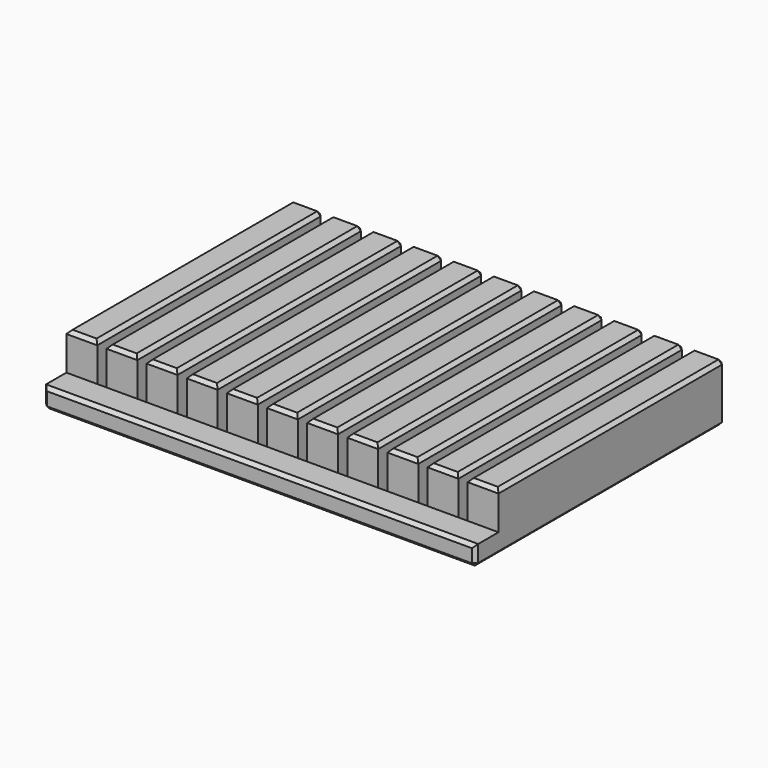
from build123d import *

# Parameters (mm, degrees)
SKETCH015_W             = 74.9
SKETCH015_H             = 3.5
PAD002_DEPTH            = 5
SKETCH017_W             = 5.35
SKETCH017_H             = 49
PAD003_DEPTH            = 10
LINEARPATTERN004_COUNT  = 11
LINEARPATTERN004_PITCH  = 6.955
CHAMFER_SIZE            = 0.6
BODY002_PLACEMENT_ANGLE = 90


with BuildPart() as part:
    # Sketch015 → Pad002 (new body)
    with BuildSketch(Plane.XY):
        with Locations((37.45, -1.75)):
            Rectangle(SKETCH015_W, SKETCH015_H)
    extrude(amount=-PAD002_DEPTH)

    # Sketch017 → Pad003 (join)
    with BuildSketch(Plane.XZ):
        with Locations((2.675, 24.5)):
            Rectangle(SKETCH017_W, SKETCH017_H)
    pad003 = extrude(amount=PAD003_DEPTH)

    # LinearPattern004: Pad003 ×11
    with Locations(*[(i * LINEARPATTERN004_PITCH, 0, 0) for i in range(1, LINEARPATTERN004_COUNT)]):
        add(pad003)

    # Chamfer
    chamfer_edges = [part.edges().sort_by_distance(p)[0] for p in [
        (2.675, -10, 0),
        (5.35, -10, 24.5),
        (2.675, -10, 49),
        (0, -10, 24.5),
        (9.63, -10, 0),
        (12.305, -10, 24.5),
        (9.63, -10, 49),
        (6.955, -10, 24.5),
        (16.585, -10, 0),
        (19.26, -10, 24.5),
        (16.585, -10, 49),
        (13.91, -10, 24.5),
        (23.54, -10, 0),
        (26.215, -10, 24.5),
        (23.54, -10, 49),
        (20.865, -10, 24.5),
        (30.495, -10, 0),
        (33.17, -10, 24.5),
        (30.495, -10, 49),
        (27.82, -10, 24.5),
        (37.45, -10, 0),
        (40.125, -10, 24.5),
        (37.45, -10, 49),
        (34.775, -10, 24.5),
        (44.405, -10, 0),
        (47.08, -10, 24.5),
        (44.405, -10, 49),
        (41.73, -10, 24.5),
        (51.36, -10, 0),
        (54.035, -10, 24.5),
        (51.36, -10, 49),
        (48.685, -10, 24.5),
        (58.315, -10, 0),
        (60.99, -10, 24.5),
        (58.315, -10, 49),
        (55.64, -10, 24.5),
        (65.27, -10, 0),
        (67.945, -10, 24.5),
        (65.27, -10, 49),
        (62.595, -10, 24.5),
        (72.225, -10, 0),
        (74.9, -10, 24.5),
        (72.225, -10, 49),
        (69.55, -10, 24.5),
        (0, 0, 22),
        (2.675, 0, 49),
        (5.35, 0, 24.5),
        (6.1525, 0, 0),
        (6.955, 0, 24.5),
        (9.63, 0, 49),
        (12.305, 0, 24.5),
        (13.1075, 0, 0),
        (13.91, 0, 24.5),
        (16.585, 0, 49),
        (19.26, 0, 24.5),
        (20.0625, 0, 0),
        (20.865, 0, 24.5),
        (23.54, 0, 49),
        (26.215, 0, 24.5),
        (27.0175, 0, 0),
        (27.82, 0, 24.5),
        (30.495, 0, 49),
        (33.17, 0, 24.5),
        (33.9725, 0, 0),
        (34.775, 0, 24.5),
        (37.45, 0, 49),
        (40.125, 0, 24.5),
        (40.9275, 0, 0),
        (41.73, 0, 24.5),
        (44.405, 0, 49),
        (47.08, 0, 24.5),
        (47.8825, 0, 0),
        (48.685, 0, 24.5),
        (51.36, 0, 49),
        (54.035, 0, 24.5),
        (54.8375, 0, 0),
        (55.64, 0, 24.5),
        (58.315, 0, 49),
        (60.99, 0, 24.5),
        (61.7925, 0, 0),
        (62.595, 0, 24.5),
        (65.27, 0, 49),
        (67.945, 0, 24.5),
        (68.7475, 0, 0),
        (69.55, 0, 24.5),
        (72.225, 0, 49),
        (74.9, 0, 22),
        (37.45, 0, -5),
        (5.35, -5, 49),
        (0, -5, 49),
        (12.305, -5, 49),
        (6.955, -5, 49),
        (19.26, -5, 49),
        (13.91, -5, 49),
        (26.215, -5, 49),
        (20.865, -5, 49),
        (33.17, -5, 49),
        (27.82, -5, 49),
        (40.125, -5, 49),
        (34.775, -5, 49),
        (47.08, -5, 49),
        (41.73, -5, 49),
        (54.035, -5, 49),
        (48.685, -5, 49),
        (60.99, -5, 49),
        (55.64, -5, 49),
        (67.945, -5, 49),
        (62.595, -5, 49),
        (74.9, -5, 49),
        (69.55, -5, 49),
        (74.9, -1.75, -5),
        (37.45, -3.5, -5),
        (0, -1.75, -5),
    ]]
    chamfer(chamfer_edges, length=CHAMFER_SIZE)


with BuildPart() as part_1:
    # Body002 placement: moved
    add(part.part.rotate(Axis((0, 0, 0), (-1, 0, 0)), BODY002_PLACEMENT_ANGLE))


solid = part_1.part
